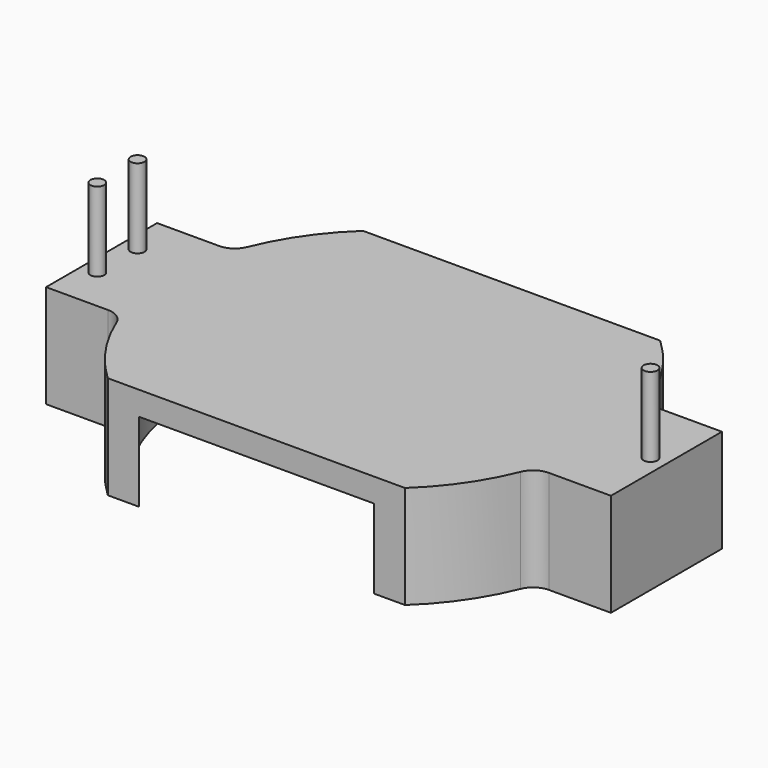
from build123d import *

# Parameters (mm, degrees)
F1_DEPTH = 5.2
F2_R     = 10
F3_DEPTH = 4
F4_R     = 0.35
F5_DEPTH = 4


with BuildPart() as f1:
    # F0 (on Top) → F1 (new body)
    with BuildSketch(Plane.XY):
        with BuildLine():
            Line((7.496499, 8.05), (-7.496499, 8.05))
            ThreePointArc((-7.496499, 8.05), (-9.061942, 6.235479), (-10.197273, 4.125))
            ThreePointArc((-10.197273, 4.125), (-10.565281, 3.670844), (-11.124298, 3.5))
            Line((-11.124298, 3.5), (-14.25, 3.5))
            Line((-14.25, 3.5), (-14.25, -3.5))
            Line((-14.25, -3.5), (-11.124298, -3.5))
            ThreePointArc((-11.124298, -3.5), (-10.565281, -3.670844), (-10.197273, -4.125))
            ThreePointArc((-10.197273, -4.125), (-9.061942, -6.235479), (-7.496499, -8.05))
            Line((-7.496499, -8.05), (7.496499, -8.05))
            ThreePointArc((7.496499, -8.05), (9.061942, -6.235479), (10.197273, -4.125))
            ThreePointArc((10.197273, -4.125), (10.565281, -3.670844), (11.124298, -3.5))
            Line((11.124298, -3.5), (14.25, -3.5))
            Line((14.25, -3.5), (14.25, 3.5))
            Line((14.25, 3.5), (11.124298, 3.5))
            ThreePointArc((11.124298, 3.5), (10.565281, 3.670844), (10.197273, 4.125))
            ThreePointArc((10.197273, 4.125), (9.061942, 6.235479), (7.496499, 8.05))
        make_face()
    extrude(amount=F1_DEPTH)

    # F2 (on face) → F3 (cut)
    with BuildSketch(Plane(origin=(0, 0, 0), x_dir=(1, 0, 0), z_dir=(0, 0, -1))):
        Circle(F2_R)
    extrude(amount=-F3_DEPTH, mode=Mode.SUBTRACT)

    # F4 (on face) → F5 (join)
    with BuildSketch(Plane.XY.offset(5.2)):
        with Locations((13.45, 0)):
            Circle(F4_R)
        with Locations((-13.45, 1.27)):
            Circle(F4_R)
        with Locations((-13.45, -1.27)):
            Circle(F4_R)
    extrude(amount=F5_DEPTH)


solid = f1.part
